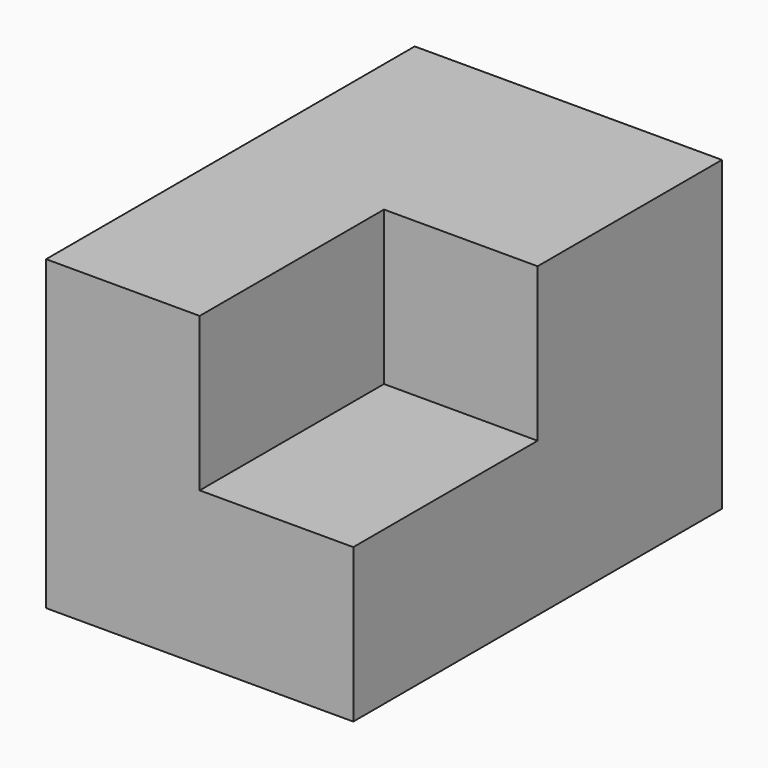
from build123d import *

# Parameters (mm, degrees)
F0_W     = 25.4
F0_H     = 25.4
F1_DEPTH = 76.2
F2_W     = 25.4
F2_H     = 25.4
F3_DEPTH = 38.1


with BuildPart() as f1:
    # F0 (on Front) → F1 (new body)
    with BuildSketch(Plane.XZ):
        Polygon((-50.8, 0), (0, 0), (0, 25.4), (-25.4, 25.4), (-25.4, 50.8), (-50.8, 50.8), align=None)
        with Locations((-12.7, 38.1)):
            Rectangle(F0_W, F0_H)
    extrude(amount=F1_DEPTH)

    # F2 (on face) → F3 (cut)
    with BuildSketch(Plane.XZ.offset(76.2)):
        with Locations((-12.7, 38.1)):
            Rectangle(F2_W, F2_H)
    extrude(amount=-F3_DEPTH, mode=Mode.SUBTRACT)


solid = f1.part
